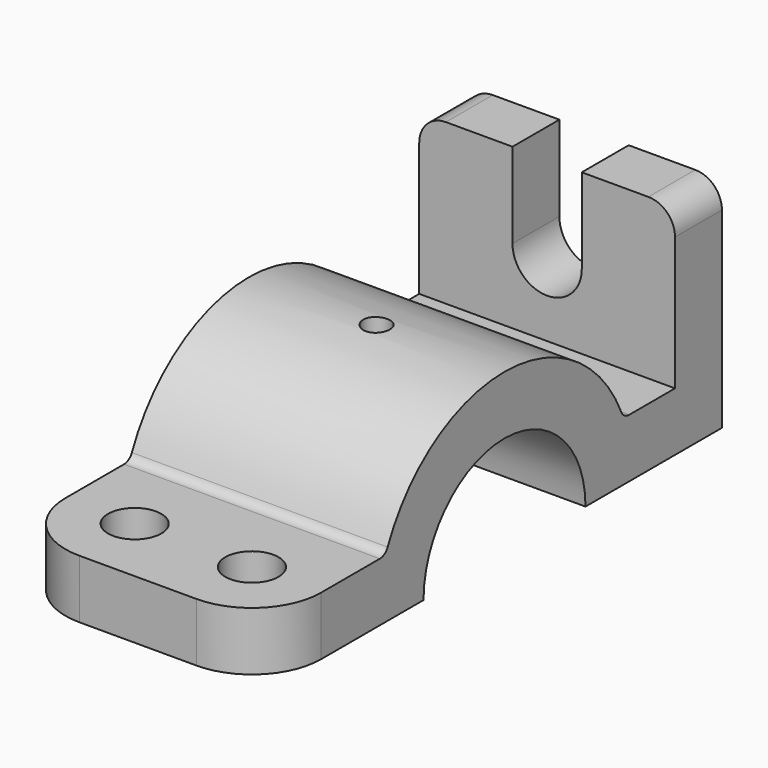
from build123d import *

# Parameters (mm, degrees)
F1_DEPTH = 24
F2_W     = 13
F2_H     = 16
F3_DEPTH = 11
F4_R     = 5
F4_R_2   = 2.5
F5_DEPTH = 41.001
F6_R     = 5
F7_R     = 13
F8_R     = 2


with BuildPart() as f1:
    # F0 (on Right) → F1 (new body, symmetric)
    with BuildSketch(Plane.YZ):
        with BuildLine():
            Line((-25.4105714739, 11), (-53.5, 11))
            Line((-53.5, 11), (-53.5, 0))
            Line((-53.5, 0), (-27.5, 0))
            ThreePointArc((-27.5, 0), (-26.9730143031, 5.5983415304), (-25.4105714739, 11))
        make_face()
        with BuildLine():
            Line((-12.9919333848, 11), (-25.4105714739, 11))
            ThreePointArc((-25.4105714739, 11), (-26.9730143031, 5.5983415304), (-27.5, 0))
            Line((-27.5, 0), (-16.5, 0))
            ThreePointArc((-16.5, 0), (-15.6017503893, 5.7729223833), (-12.9919333848, 11))
        make_face()
        with BuildLine():
            ThreePointArc((30.4105714739, 11), (2.5, 30), (-25.4105714739, 11))
            Line((-25.4105714739, 11), (-12.9919333848, 11))
            ThreePointArc((-12.9919333848, 11), (2.5, 19), (17.9919333848, 11))
            Line((17.9919333848, 11), (30.4105714739, 11))
        make_face()
        with BuildLine():
            ThreePointArc((32.5, 0), (31.9730143031, 5.5983415304), (30.4105714739, 11))
            Line((30.4105714739, 11), (17.9919333848, 11))
            ThreePointArc((17.9919333848, 11), (20.6017503893, 5.7729223833), (21.5, 0))
            Line((21.5, 0), (32.5, 0))
        make_face()
        with BuildLine():
            Line((53.5, 41), (42.5, 41))
            Line((42.5, 41), (42.5, 11))
            Line((42.5, 11), (30.4105714739, 11))
            ThreePointArc((30.4105714739, 11), (31.9730143031, 5.5983415304), (32.5, 0))
            Line((32.5, 0), (53.5, 0))
            Line((53.5, 0), (53.5, 41))
        make_face()
    extrude(amount=F1_DEPTH, both=True)

    # F2 (on face) → F3 (cut, through all)
    with BuildSketch(Plane(origin=(0, 53.5, 0), x_dir=(-1, 0, 0), z_dir=(0, 1, 0))):
        with Locations((0, 49)):
            Rectangle(F2_W, F2_H)
        with BuildLine():
            ThreePointArc((-6.5, 25), (0, 31.5), (6.5, 25))
            Line((6.5, 25), (6.5, 41))
            Line((6.5, 41), (-6.5, 41))
            Line((-6.5, 41), (-6.5, 25))
        make_face()
        with BuildLine():
            Line((-6.5, 25), (6.5, 25))
            ThreePointArc((6.5, 25), (0, 31.5), (-6.5, 25))
        make_face()
        with BuildLine():
            ThreePointArc((-6.5, 25), (0, 18.5), (6.5, 25))
            Line((6.5, 25), (-6.5, 25))
        make_face()
    extrude(amount=-F3_DEPTH, mode=Mode.SUBTRACT)

    # F4 (on Top) → F5 (cut, through all)
    with BuildSketch(Plane.XY):
        with Locations((-11, -40.5)):
            Circle(F4_R)
        with Locations((11, -40.5)):
            Circle(F4_R)
        with Locations((0, 2.5)):
            Circle(F4_R_2)
    extrude(amount=F5_DEPTH, mode=Mode.SUBTRACT)

    # F6
    f6_edges = [f1.edges().sort_by_distance(p)[0] for p in [
        (-24, 48, 41),
        (24, 48, 41),
    ]]
    fillet(f6_edges, radius=F6_R)

    # F7
    f7_edges = [f1.edges().sort_by_distance(p)[0] for p in [
        (-24, -53.5, 5.5),
        (24, -53.5, 5.5),
    ]]
    fillet(f7_edges, radius=F7_R)

    # F8
    f8_edges = [f1.edges().sort_by_distance(p)[0] for p in [
        (0, -25.410571, 11),
        (0, 30.410571, 11),
    ]]
    fillet(f8_edges, radius=F8_R)


solid = f1.part
